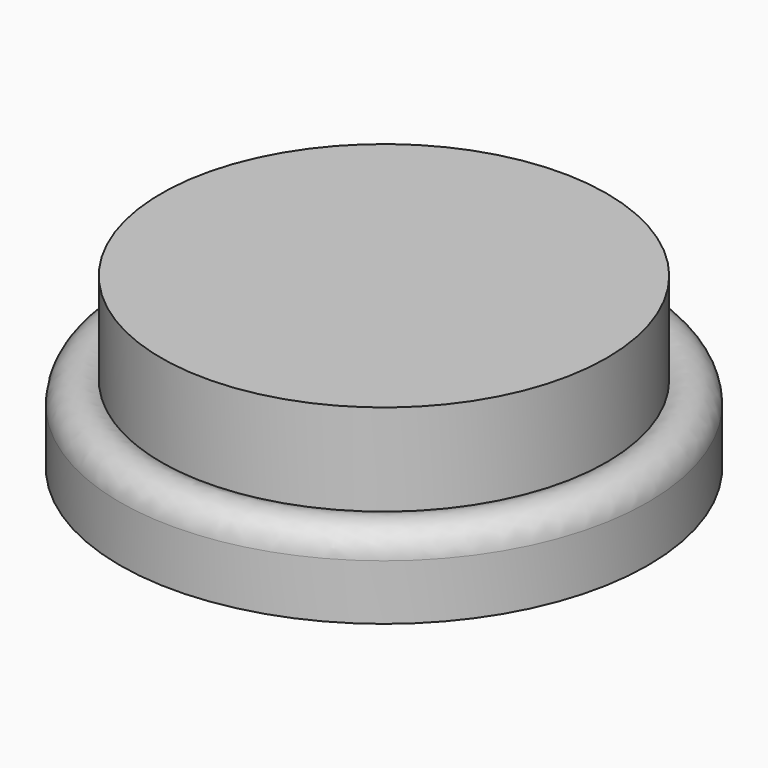
from build123d import *

# Parameters (mm, degrees)
F2_R     = 5
F3_R     = 42.1739130435
F3_R_2   = 31.026334039
F4_DEPTH = 25


with BuildPart() as f1:
    # F0 (on Front) → F1 (revolve)
    with BuildSketch(Plane.XZ):
        Polygon((-50, 0), (0, 0), (0, 7), (-31.026334039, 7), (-50, 20), align=None)
    revolve(axis=Axis((0, 0, 3.5), (0, 0, -1)))

    # F2
    f2_edges = [f1.edges().sort_by_distance(p)[0] for p in [
        (50, 0, 20),
    ]]
    fillet(f2_edges, radius=F2_R)


with BuildPart() as f4:
    # F3 (on face) → F4 (new body)
    with BuildSketch(Plane.XY.offset(7)):
        Circle(F3_R)
        Circle(F3_R_2, mode=Mode.SUBTRACT)
        Circle(F3_R_2)
    extrude(amount=F4_DEPTH)


solid = Compound([f1.part, f4.part])
